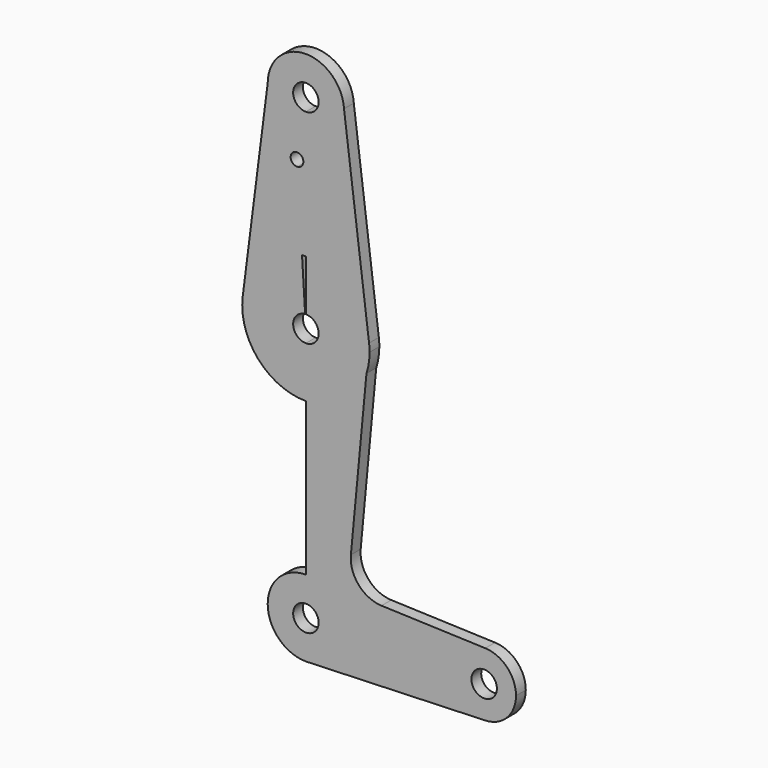
from build123d import *

# Parameters (mm, degrees)
F1_DEPTH = 3.048


with BuildPart() as f1:
    # F0 (on Front) → F1 (new body)
    with BuildSketch(Plane.XZ):
        with BuildLine():
            ThreePointArc((15.0989586091, 58.5972381334), (15.6797894265, 61.0180998126), (15.875, 63.5))
            ThreePointArc((15.875, 63.5), (15.843643726, 64.4972855577), (15.7496987737, 65.4906314418))
            Line((15.7496987737, 65.4906314418), (15.0989586091, 58.5972381334))
        make_face()
        with BuildLine():
            Line((15.0989586091, 58.5972381334), (15.7496987737, 65.4906314418))
            ThreePointArc((15.7496987737, 65.4906314418), (10.4979605367, 75.408335298), (0, 79.375))
            Line((0, 79.375), (0, 66.675))
            ThreePointArc((0, 66.675), (2.2450640303, 65.7450640303), (3.175, 63.5))
            ThreePointArc((3.175, 63.5), (2.2450640303, 61.2549359697), (0, 60.325))
            Line((0, 60.325), (0, 47.625))
            ThreePointArc((0, 47.625), (9.3323169783, 50.6577461162), (15.0989586091, 58.5972381334))
        make_face()
        with BuildLine():
            ThreePointArc((0, 79.375), (10.4979605367, 75.408335298), (15.7496987737, 65.4906314418))
            Line((15.7496987737, 65.4906314418), (9.5073556067, 114.8794949239))
            ThreePointArc((9.5073556067, 114.8794949239), (9.5205878798, 114.5898817394), (9.525, 114.3))
            ThreePointArc((9.525, 114.3), (6.7351920908, 107.5648079092), (0, 104.775))
            Line((0, 104.775), (0, 79.375))
        make_face()
        with BuildLine():
            Line((11.2237043258, 17.546057651), (15.0989586091, 58.5972381334))
            ThreePointArc((15.0989586091, 58.5972381334), (9.3323169783, 50.6577461162), (0, 47.625))
            Line((0, 47.625), (0, 9.525))
            ThreePointArc((0, 9.525), (6.7351920908, 6.7351920908), (9.525, 0))
            Line((9.525, 0), (36.5125, 0))
            ThreePointArc((36.5125, 0), (38.9380895153, 5.7116327839), (44.7324052746, 7.9324746146))
            Line((44.7324052746, 7.9324746146), (18.8558582529, 8.853709629))
            ThreePointArc((18.8558582529, 8.853709629), (13.1645636219, 11.5533837704), (11.2237043258, 17.546057651))
        make_face()
        with BuildLine():
            ThreePointArc((-0.9612294652, 79.3458721096), (-0.4808353457, 79.3677163565), (0, 79.375))
            Line((0, 79.375), (0, 104.775))
            ThreePointArc((0, 104.775), (-6.7492648996, 107.5789101839), (-9.5249166577, 114.339845498))
            Line((-9.5249166577, 114.339845498), (-15.7476590945, 65.5067032771))
            ThreePointArc((-15.7476590945, 65.5067032771), (-10.8479208938, 75.0904373205), (-0.9612294652, 79.3458721096))
        make_face()
        with BuildLine():
            ThreePointArc((-0.6240967535, 99.9581825499), (-1.0555795763, 98.8701657595), (-2.1154738069, 98.3735953389))
            ThreePointArc((-2.1154738069, 98.3735953389), (-3.3676139306, 101.0461993403), (-0.6240967535, 99.9581825499))
        make_face(mode=Mode.SUBTRACT)
        with BuildLine():
            ThreePointArc((9.525, 114.3), (9.5205878798, 114.5898817394), (9.5073556067, 114.8794949239))
            ThreePointArc((9.5073556067, 114.8794949239), (-0.2699675413, 123.8211733797), (-9.5249166577, 114.339845498))
            ThreePointArc((-9.5249166577, 114.339845498), (-6.7492648996, 107.5789101839), (0, 104.775))
            ThreePointArc((0, 104.775), (6.7351920908, 107.5648079092), (9.525, 114.3))
        make_face()
        with BuildLine():
            ThreePointArc((3.175, 114.3), (2.2450640303, 112.0549359697), (0, 111.125))
            ThreePointArc((0, 111.125), (-2.2450640303, 116.5450640303), (3.175, 114.3))
        make_face(mode=Mode.SUBTRACT)
        with BuildLine():
            ThreePointArc((-15.0944695401, 58.5834347047), (-9.3264449534, 50.6534810345), (0, 47.625))
            Line((0, 47.625), (0, 60.325))
            ThreePointArc((0, 60.325), (-3.1735432713, 63.4038329309), (-0.192245893, 66.6691744219))
            Line((-0.192245893, 66.6691744219), (-0.9612294652, 79.3458721096))
            ThreePointArc((-0.9612294652, 79.3458721096), (-10.8479208938, 75.0904373205), (-15.7476590945, 65.5067032771))
            Line((-15.7476590945, 65.5067032771), (-15.0944695401, 58.5834347047))
        make_face()
        with BuildLine():
            ThreePointArc((-15.7476590945, 65.5067032771), (-15.8048137164, 62.00886339), (-15.0944695401, 58.5834347047))
            Line((-15.0944695401, 58.5834347047), (-15.7476590945, 65.5067032771))
        make_face()
        with BuildLine():
            ThreePointArc((9.525, 0), (6.7351920908, 6.7351920908), (0, 9.525))
            Line((0, 9.525), (0, 3.175))
            ThreePointArc((0, 3.175), (2.2450640303, 2.2450640303), (3.175, 0))
            Line((3.175, 0), (9.525, 0))
        make_face()
        with BuildLine():
            Line((0, 3.175), (0, 9.525))
            ThreePointArc((0, 9.525), (-9.525, 0), (0, -9.525))
            Line((0, -9.525), (0.6773435479, -9.500885786))
            ThreePointArc((0.6773435479, -9.500885786), (6.9705567315, -6.4912990883), (9.525, 0))
            Line((9.525, 0), (3.175, 0))
            ThreePointArc((3.175, 0), (-2.2450640303, -2.2450640303), (0, 3.175))
        make_face()
        with BuildLine():
            Line((36.5125, 0), (9.525, 0))
            ThreePointArc((9.525, 0), (6.9705567315, -6.4912990883), (0.6773435479, -9.500885786))
            Line((0.6773435479, -9.500885786), (44.7324052746, -7.9324746146))
            ThreePointArc((44.7324052746, -7.9324746146), (38.9380895153, -5.7116327839), (36.5125, 0))
        make_face()
        with BuildLine():
            Line((0.6773435479, -9.500885786), (0, -9.525))
            ThreePointArc((0, -9.525), (0.3388863295, -9.5189695375), (0.6773435479, -9.500885786))
        make_face()
        with BuildLine():
            ThreePointArc((52.3875, 0), (50.1616327839, 5.5119104847), (44.7324052746, 7.9324746146))
            ThreePointArc((44.7324052746, 7.9324746146), (38.9380895153, 5.7116327839), (36.5125, 0))
            ThreePointArc((36.5125, 0), (38.9380895153, -5.7116327839), (44.7324052746, -7.9324746146))
            ThreePointArc((44.7324052746, -7.9324746146), (50.1616327839, -5.5119104847), (52.3875, 0))
        make_face()
        with BuildLine():
            ThreePointArc((47.625, 0), (44.45, -3.175), (41.275, 0))
            ThreePointArc((41.275, 0), (44.45, 3.175), (47.625, 0))
        make_face(mode=Mode.SUBTRACT)
    extrude(amount=F1_DEPTH)


solid = f1.part
